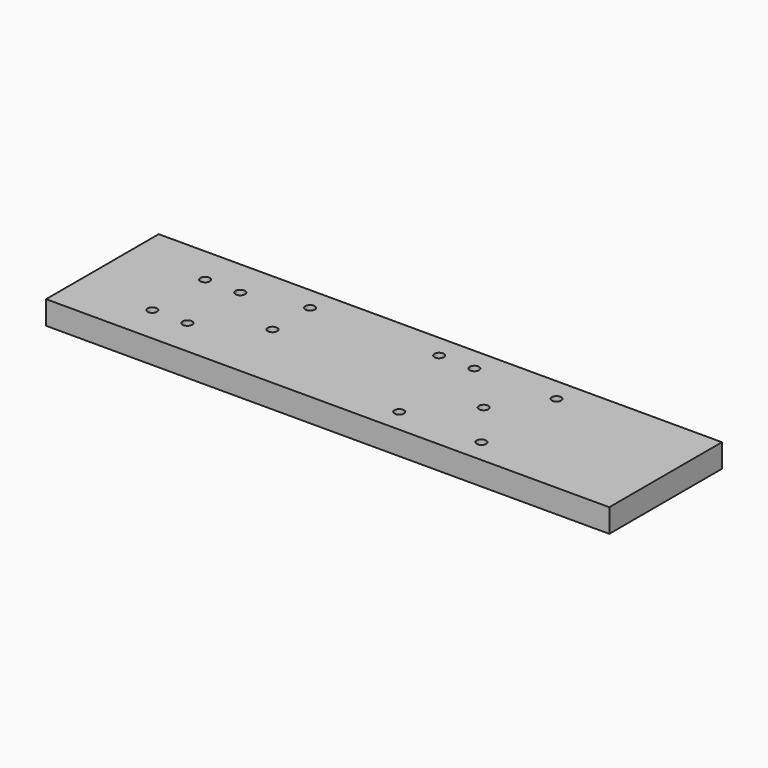
from build123d import *

# Parameters (mm, degrees)
F0_R     = 2.5527
F1_DEPTH = 12.7


with BuildPart() as f1:
    # F0 (on Top) → F1 (new body)
    with BuildSketch(Plane.XY):
        Polygon((285.75, 0), (0, 0), (-19.05, 0), (-19.05, -76.2), (44.45, -76.2), (285.75, -76.2), align=None)
        with Locations((22.225, -55.959375)):
            Circle(F0_R, mode=Mode.SUBTRACT)
        with Locations((41.275, -55.959375)):
            Circle(F0_R, mode=Mode.SUBTRACT)
        with Locations((161.925, -63.5)):
            Circle(F0_R, mode=Mode.SUBTRACT)
        with Locations((206.375, -63.5)):
            Circle(F0_R, mode=Mode.SUBTRACT)
        with Locations((22.225, -20.240625)):
            Circle(F0_R, mode=Mode.SUBTRACT)
        with Locations((41.275, -20.240625)):
            Circle(F0_R, mode=Mode.SUBTRACT)
        with Locations((73.025, -38.1)):
            Circle(F0_R, mode=Mode.SUBTRACT)
        with Locations((73.025, -12.7)):
            Circle(F0_R, mode=Mode.SUBTRACT)
        with Locations((187.325, -38.1)):
            Circle(F0_R, mode=Mode.SUBTRACT)
        with Locations((142.875, -12.7)):
            Circle(F0_R, mode=Mode.SUBTRACT)
        with Locations((161.925, -12.7)):
            Circle(F0_R, mode=Mode.SUBTRACT)
        with Locations((206.375, -12.7)):
            Circle(F0_R, mode=Mode.SUBTRACT)
    extrude(amount=F1_DEPTH)


solid = f1.part
